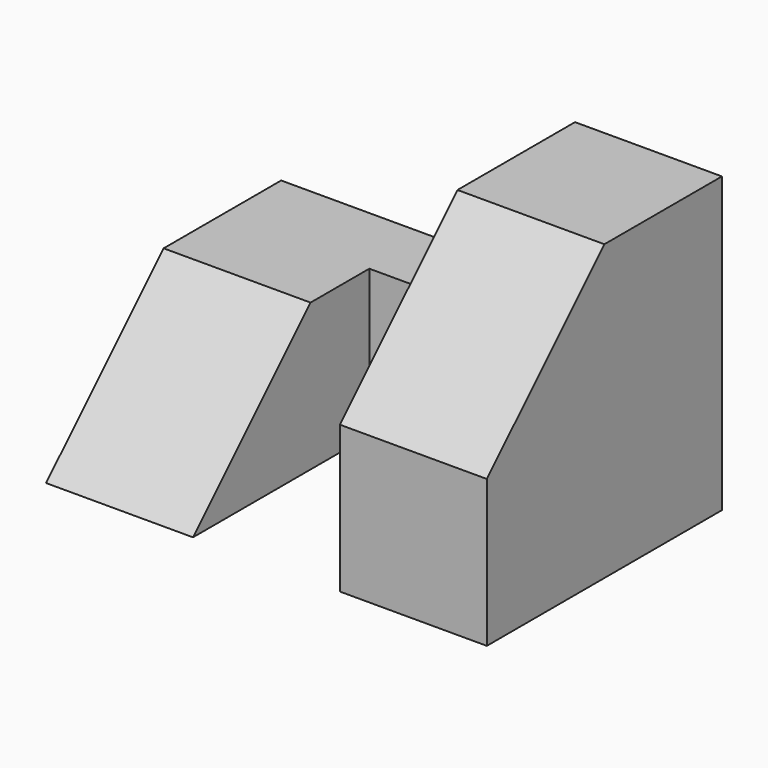
from build123d import *

# Parameters (mm, degrees)
F1_DEPTH = 12.7
F2_W     = 6.35
F2_H     = 12.7
F3_DEPTH = 12.7
F5_DEPTH = 12.7


with BuildPart() as f1:
    # F0 (on Right) → F1 (new body)
    with BuildSketch(Plane.YZ):
        Polygon((12.7, 12.7), (0, 0), (25.4, 0), (25.4, 12.7), align=None)
    extrude(amount=F1_DEPTH)

    # F2 (on face) → F3 (join)
    with BuildSketch(Plane.YZ.offset(12.7)):
        with Locations((22.225, 6.35)):
            Rectangle(F2_W, F2_H)
    extrude(amount=F3_DEPTH)

    # F4 (on face) → F5 (join)
    with BuildSketch(Plane.YZ.offset(25.4)):
        Polygon((0, 0), (25.4, 0), (25.4, 25.4), (12.7, 25.4), (0, 12.7), align=None)
    extrude(amount=F5_DEPTH)


solid = f1.part
